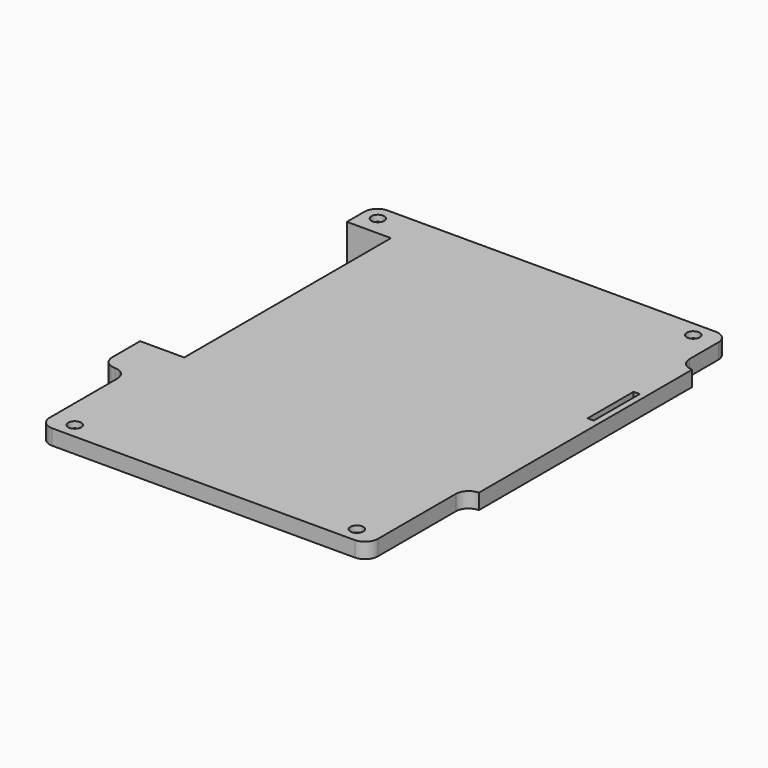
from build123d import *

# Parameters (mm, degrees)
PAD021_DEPTH         = 3
SKETCH045_R          = 1.25
POCKET023_DEPTH      = 3.001
POCKET023_DEPTH_BACK = 0.001
POCKET024_DEPTH      = 1.8
PAD022_DEPTH         = 10
SKETCH048_W          = 8.6
SKETCH048_H          = 50.4
POCKET025_DEPTH      = 10
SKETCH049_W          = 2
SKETCH049_H          = 40
POCKET026_DEPTH      = 2
SKETCH050_W          = 1.2
SKETCH050_H          = 11.2
POCKET027_DEPTH      = 2
CHAMFER_SIZE         = 7
FILLET_R             = 2


with BuildPart() as part:
    # Sketch044 → Pad021 (new body)
    with BuildSketch(Plane.XY):
        with BuildLine():
            Line((-29.5, -64), (29.5, -64))
            ThreePointArc((29.5, -64), (31.267767, -63.267767), (32, -61.5))
            Line((32, -42.5), (32, -61.5))
            ThreePointArc((34.5, -40), (32.732233, -40.732233), (32, -42.5))
            Line((34.5, 12), (34.5, -40))
            ThreePointArc((32, 14.5), (32.732233, 12.732233), (34.5, 12))
            Line((32, 21.5), (32, 14.5))
            ThreePointArc((32, 21.5), (31.267767, 23.267767), (29.5, 24))
            Line((29.5, 24), (-34.5, 24))
            ThreePointArc((-34.5, 24), (-36.267767, 23.267767), (-37, 21.5))
            Line((-37, 21.5), (-37, -40))
            ThreePointArc((-37, -40), (-36.267767, -41.767767), (-34.5, -42.5))
            ThreePointArc((-32, -45), (-32.732233, -43.232233), (-34.5, -42.5))
            Line((-32, -45), (-32, -61.5))
            ThreePointArc((-32, -61.5), (-31.267767, -63.267767), (-29.5, -64))
        make_face()
    extrude(amount=-PAD021_DEPTH)

    # Sketch045 → Pocket023 (cut, two sides)
    with BuildSketch(Plane.XY) as pocket023_sk:
        with Locations((-34, 21)):
            Circle(SKETCH045_R)
        with Locations((27.5, 21)):
            Circle(SKETCH045_R)
        with Locations((27.5, -61)):
            Circle(SKETCH045_R)
        with Locations((-27.5, -61)):
            Circle(SKETCH045_R)
    extrude(amount=-POCKET023_DEPTH, mode=Mode.SUBTRACT)
    extrude(pocket023_sk.sketch, amount=POCKET023_DEPTH_BACK, mode=Mode.SUBTRACT)

    # Sketch046 (on Face5 of Pocket023) → Pocket024 (cut)
    with BuildSketch(Plane(origin=(0, 0, -3), x_dir=(1, 0, 0), z_dir=(0, 0, -1))):
        Polygon((-25.132864, 61), (-26.316432, 63.05), (-28.683568, 63.05), (-29.867136, 61), (-28.683568, 58.95), (-26.316432, 58.95), align=None)
        Polygon((29.867136, 61), (28.683568, 63.05), (26.316432, 63.05), (25.132864, 61), (26.316432, 58.95), (28.683568, 58.95), align=None)
        Polygon((-31.632864, -21), (-32.816432, -18.95), (-35.183568, -18.95), (-36.367136, -21), (-35.183568, -23.05), (-32.816432, -23.05), align=None)
        Polygon((29.867136, -21), (28.683568, -18.95), (26.316432, -18.95), (25.132864, -21), (26.316432, -23.05), (28.683568, -23.05), align=None)
    extrude(amount=-POCKET024_DEPTH, mode=Mode.SUBTRACT)

    # Sketch047 (on Face5 of Pocket024) → Pad022 (join)
    with BuildSketch(Plane(origin=(0, 0, -3), x_dir=(1, 0, 0), z_dir=(0, 0, -1))):
        with BuildLine():
            ThreePointArc((-34.5, 42.5), (-36.267767, 41.767767), (-37, 40))
            Line((-37, 40), (-37, -18.5))
            Line((-37, -18.5), (-29, -18.5))
            Line((-29, -18.5), (-29, -24))
            Line((-29, -24), (-22, -24))
            Line((-22, 45), (-22, -24))
            Line((-32, 45), (-22, 45))
            ThreePointArc((-34.5, 42.5), (-32.732233, 43.232233), (-32, 45))
        make_face()
    extrude(amount=PAD022_DEPTH)

    # Sketch048 → Pocket025 (cut)
    with BuildSketch(Plane.XY):
        with Locations((-32.7, -8)):
            Rectangle(SKETCH048_W, SKETCH048_H)
    extrude(amount=-POCKET025_DEPTH, mode=Mode.SUBTRACT)

    # Sketch049 (on Face50 of Pocket025) → Pocket026 (cut)
    with BuildSketch(Plane.XY.offset(-10)):
        with Locations((-34.5, -7.5)):
            Rectangle(SKETCH049_W, SKETCH049_H)
    extrude(amount=-POCKET026_DEPTH, mode=Mode.SUBTRACT)

    # Sketch050 → Pocket027 (cut)
    with BuildSketch(Plane.XY):
        with Locations((32.7, -4.9)):
            Rectangle(SKETCH050_W, SKETCH050_H)
    extrude(amount=-POCKET027_DEPTH, mode=Mode.SUBTRACT)

    # Chamfer
    chamfer_edges = [part.edges().sort_by_distance(p)[0] for p in [
        (-22, -10.5, -3),
    ]]
    chamfer(chamfer_edges, length=CHAMFER_SIZE)

    # Fillet
    fillet_edges = [part.edges().sort_by_distance(p)[0] for p in [
        (-22, -10.5, -13),
    ]]
    fillet(fillet_edges, radius=FILLET_R)


with BuildPart() as part_1:
    # Body006 placement: moved
    add(part.part.moved(Location((0, 0, -7))))


solid = part_1.part
